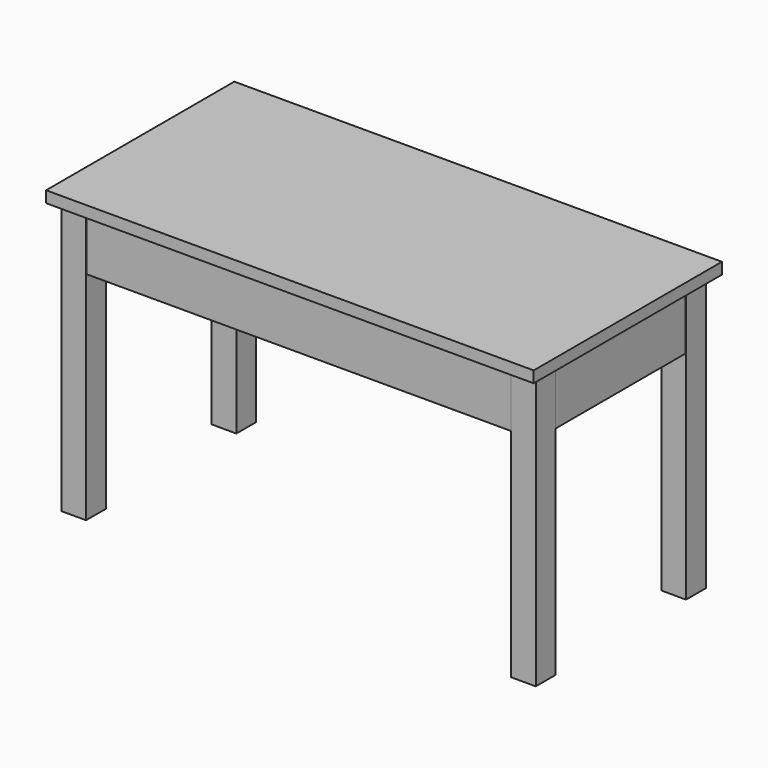
from build123d import *

# Parameters (mm, degrees)
F1_W     = 65
F1_H     = 65
F2_DEPTH = 720
F3_W     = 1246
F3_H     = 556
F4_DEPTH = 150
F5_W     = 1285
F5_H     = 620
F6_DEPTH = 30


with BuildPart() as f2:
    # F1 (on Top) → F2 (new body, through all)
    with BuildSketch(Plane.XY):
        with Locations((52.5, 557.5)):
            Rectangle(F1_W, F1_H)
        with Locations((1237.5, 62.5)):
            Rectangle(F1_W, F1_H)
        with Locations((1237.5, 557.5)):
            Rectangle(F1_W, F1_H)
        with Locations((52.5, 62.5)):
            Rectangle(F1_W, F1_H)
    extrude(amount=F2_DEPTH)

    # F3 (on offset) → F4 (join)
    with BuildSketch(Plane.XY.offset(720)):
        with Locations((645, 310)):
            Rectangle(F3_W, F3_H)
    extrude(amount=-F4_DEPTH)

    # F5 (on offset) → F6 (join)
    with BuildSketch(Plane.XY.offset(720)):
        with Locations((644.5, 312)):
            Rectangle(F5_W, F5_H)
    extrude(amount=F6_DEPTH)


solid = f2.part
